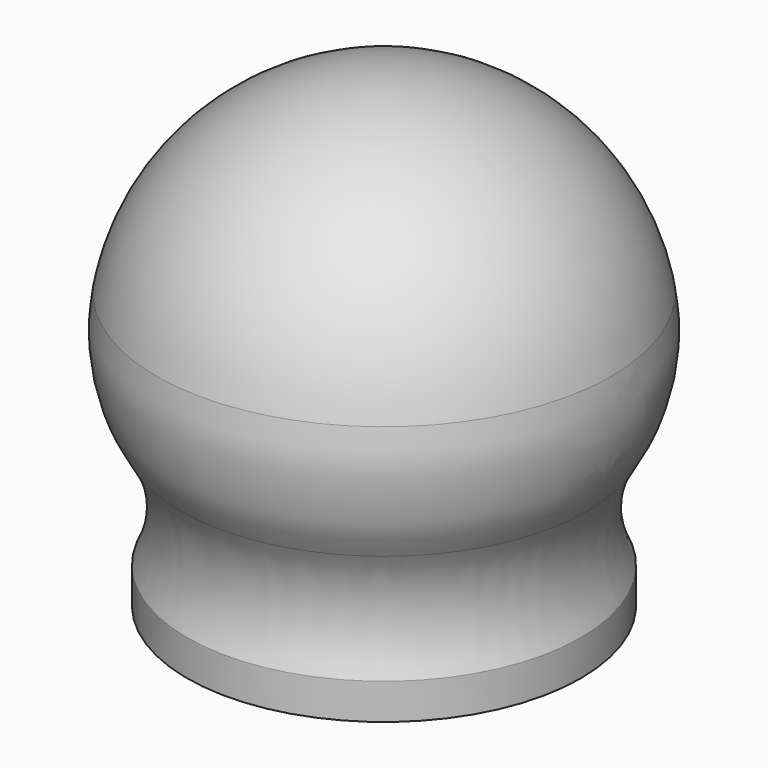
from build123d import *

# Parameters (mm, degrees)
F2_R = 19.05


with BuildPart() as f1:
    # F0 (on Front) → F1 (revolve)
    with BuildSketch(Plane.XZ):
        with BuildLine():
            ThreePointArc((21.59, 3.935231), (20.537248, 12.000213), (24.593444, 19.05))
            ThreePointArc((24.593444, 19.05), (20.080463, 40.95426), (0, 50.8))
            Line((0, 50.8), (0, 31.75))
            Line((0, 31.75), (4, 31.75))
            Line((4, 31.75), (4, 0))
            Line((4, 0), (21.59, 0))
            Line((21.59, 0), (21.59, 3.935231))
        make_face()
    revolve(axis=Axis((0, 0, 41.275), (0, 0, 1)))

    # F2
    f2_edges = [f1.edges().sort_by_distance(p)[0] for p in [
        (-24.593444, 0, 19.05),
    ]]
    fillet(f2_edges, radius=F2_R)


solid = f1.part
